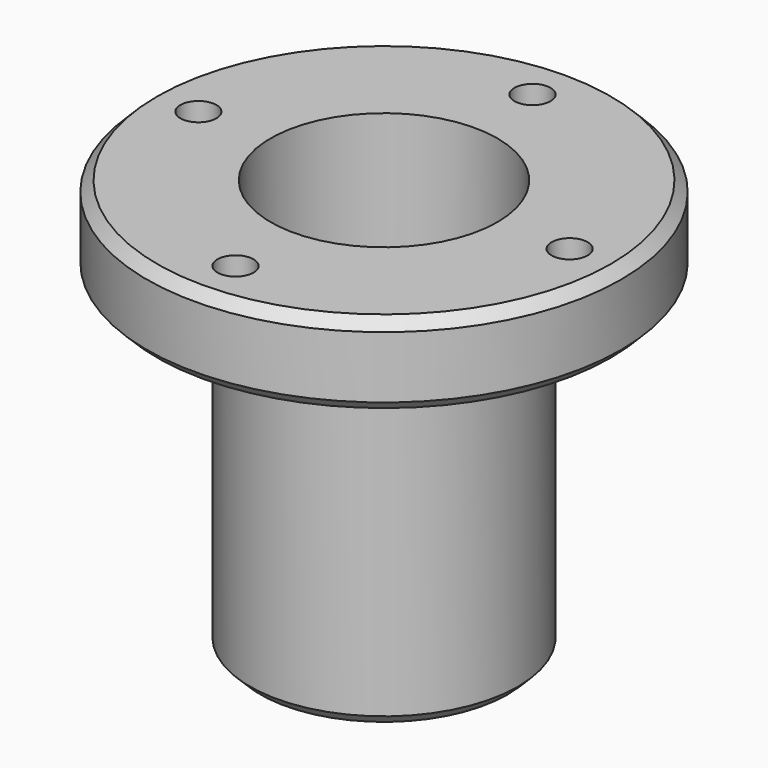
from build123d import *

# Parameters (mm, degrees)
F0_R     = 73.025
F1_DEPTH = 25.4
F2_R     = 41.275
F3_DEPTH = 101.6
F4_R     = 20.32
F5_DEPTH = 127.001
F6_R     = 5.55625
F6_R_2   = 34.925
F7_DEPTH = 76.2
F8_SIZE  = 3.175


with BuildPart() as f1:
    # F0 (on Top) → F1 (new body)
    with BuildSketch(Plane.XY):
        Circle(F0_R)
    extrude(amount=F1_DEPTH)

    # F2 (on face) → F3 (join)
    with BuildSketch(Plane(origin=(0, 0, 0), x_dir=(1, 0, 0), z_dir=(0, 0, -1))):
        Circle(F2_R)
    extrude(amount=F3_DEPTH)

    # F4 (on face) → F5 (cut, through all)
    with BuildSketch(Plane(origin=(0, 0, -101.6), x_dir=(1, 0, 0), z_dir=(0, 0, -1))):
        Circle(F4_R)
    extrude(amount=-F5_DEPTH, mode=Mode.SUBTRACT)

    # F6 (on face) → F7 (cut)
    with BuildSketch(Plane.XY.offset(25.4)):
        with Locations((-57.15, 0)):
            Circle(F6_R)
        with Locations((0, 57.15)):
            Circle(F6_R)
        with Locations((57.15, 0)):
            Circle(F6_R)
        with Locations((0, -57.15)):
            Circle(F6_R)
        Circle(F6_R_2)
    extrude(amount=-F7_DEPTH, mode=Mode.SUBTRACT)

    # F8
    f8_edges = [f1.edges().sort_by_distance(p)[0] for p in [
        (-73.025, 0, 25.4),
        (-73.025, 0, 0),
        (-41.275, 0, -101.6),
    ]]
    chamfer(f8_edges, length=F8_SIZE)


solid = f1.part
